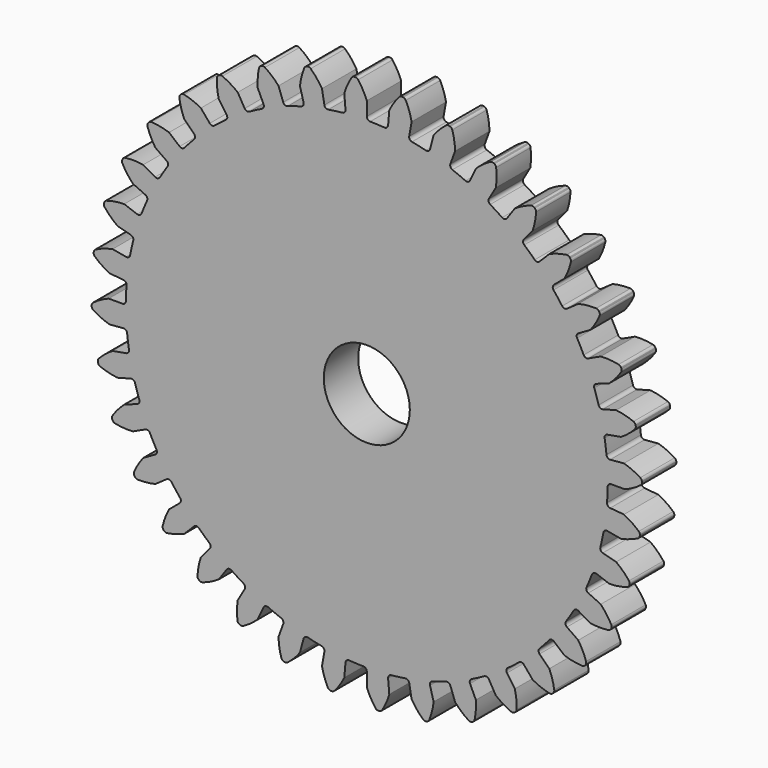
from build123d import *

# Parameters (mm, degrees)
F1_DEPTH = 6.35
F2_R     = 6.35
F3_DEPTH = 6.351


with BuildPart() as f1:
    # F0 (on Front) → F1 (new body)
    with BuildSketch(Plane.XZ):
        with BuildLine():
            ThreePointArc((-3.143222, 35.927186), (-3.257848, 35.559124), (-3.59789, 35.377518))
            ThreePointArc((-3.59789, 35.377518), (-4.641511, 35.255779), (-5.681081, 35.103261))
            ThreePointArc((-5.681081, 35.103261), (-7.696593, 34.717086), (-9.686472, 34.215287))
            ThreePointArc((-9.686472, 34.215287), (-10.693098, 33.914175), (-11.690389, 33.583454))
            ThreePointArc((-11.690389, 33.583454), (-13.608223, 32.853156), (-15.480734, 32.013442))
            ThreePointArc((-15.480734, 32.013442), (-16.419781, 31.542105), (-17.344492, 31.043231))
            ThreePointArc((-17.344492, 31.043231), (-19.106374, 29.991), (-20.804623, 28.838884))
            ThreePointArc((-20.804623, 28.838884), (-21.647556, 28.211645), (-22.471591, 27.559775))
            ThreePointArc((-22.471591, 27.559775), (-24.023988, 26.217582), (-25.496374, 24.788072))
            ThreePointArc((-25.496374, 24.788072), (-26.217582, 24.023988), (-26.915901, 23.23893))
            ThreePointArc((-26.915901, 23.23893), (-28.211645, 21.647556), (-29.41343, 19.984087))
            ThreePointArc((-29.41343, 19.984087), (-29.991, 19.106374), (-30.542386, 18.211981))
            ThreePointArc((-30.542386, 18.211981), (-31.542105, 16.419781), (-32.436774, 14.572895))
            ThreePointArc((-32.436774, 14.572895), (-32.853156, 13.608223), (-33.240856, 12.63167))
            ThreePointArc((-33.240856, 12.63167), (-33.914175, 10.693098), (-34.474544, 8.718913))
            ThreePointArc((-34.474544, 8.718913), (-34.717086, 7.696593), (-34.929319, 6.667553))
            ThreePointArc((-34.929319, 6.667553), (-35.255779, 4.641511), (-35.464821, 2.600012))
            ThreePointArc((-35.464821, 2.600012), (-35.526155, 1.551105), (-35.556473, 0.500845))
            ThreePointArc((-35.556473, 0.500845), (-35.526155, -1.551105), (-35.377518, -3.59789))
            ThreePointArc((-35.377518, -3.59789), (-35.255779, -4.641511), (-35.103261, -5.681081))
            ThreePointArc((-35.103261, -5.681081), (-34.717086, -7.696593), (-34.215287, -9.686472))
            ThreePointArc((-34.215287, -9.686472), (-33.914175, -10.693098), (-33.583454, -11.690389))
            ThreePointArc((-33.583454, -11.690389), (-32.853156, -13.608223), (-32.013442, -15.480734))
            ThreePointArc((-32.013442, -15.480734), (-31.542105, -16.419781), (-31.043231, -17.344492))
            ThreePointArc((-31.043231, -17.344492), (-29.991, -19.106374), (-28.838884, -20.804623))
            ThreePointArc((-28.838884, -20.804623), (-28.211645, -21.647556), (-27.559775, -22.471591))
            ThreePointArc((-27.559775, -22.471591), (-26.217582, -24.023988), (-24.788072, -25.496374))
            ThreePointArc((-24.788072, -25.496374), (-24.023988, -26.217582), (-23.23893, -26.915901))
            ThreePointArc((-23.23893, -26.915901), (-21.647556, -28.211645), (-19.984087, -29.41343))
            ThreePointArc((-19.984087, -29.41343), (-19.106374, -29.991), (-18.211981, -30.542386))
            ThreePointArc((-18.211981, -30.542386), (-16.419781, -31.542105), (-14.572895, -32.436774))
            ThreePointArc((-14.572895, -32.436774), (-13.608223, -32.853156), (-12.63167, -33.240856))
            ThreePointArc((-12.63167, -33.240856), (-10.693098, -33.914175), (-8.718913, -34.474544))
            ThreePointArc((-8.718913, -34.474544), (-7.696593, -34.717086), (-6.667553, -34.929319))
            ThreePointArc((-6.667553, -34.929319), (-4.641511, -35.255779), (-2.600012, -35.464821))
            ThreePointArc((-2.600012, -35.464821), (-1.551105, -35.526155), (-0.500845, -35.556473))
            ThreePointArc((-0.500845, -35.556473), (1.551105, -35.526155), (3.59789, -35.377518))
            ThreePointArc((3.59789, -35.377518), (4.641511, -35.255779), (5.681081, -35.103261))
            ThreePointArc((5.681081, -35.103261), (7.696593, -34.717086), (9.686472, -34.215287))
            ThreePointArc((9.686472, -34.215287), (10.693098, -33.914175), (11.690389, -33.583454))
            ThreePointArc((11.690389, -33.583454), (13.608223, -32.853156), (15.480734, -32.013442))
            ThreePointArc((15.480734, -32.013442), (16.419781, -31.542105), (17.344492, -31.043231))
            ThreePointArc((17.344492, -31.043231), (19.106374, -29.991), (20.804623, -28.838884))
            ThreePointArc((20.804623, -28.838884), (21.647556, -28.211645), (22.471591, -27.559775))
            ThreePointArc((22.471591, -27.559775), (24.023988, -26.217582), (25.496374, -24.788072))
            ThreePointArc((25.496374, -24.788072), (26.217582, -24.023988), (26.915901, -23.23893))
            ThreePointArc((26.915901, -23.23893), (28.211645, -21.647556), (29.41343, -19.984087))
            ThreePointArc((29.41343, -19.984087), (29.991, -19.106374), (30.542386, -18.211981))
            ThreePointArc((30.542386, -18.211981), (31.542105, -16.419781), (32.436774, -14.572895))
            ThreePointArc((32.436774, -14.572895), (32.853156, -13.608223), (33.240856, -12.63167))
            ThreePointArc((33.240856, -12.63167), (33.914175, -10.693098), (34.474544, -8.718913))
            ThreePointArc((34.474544, -8.718913), (34.717086, -7.696593), (34.929319, -6.667553))
            ThreePointArc((34.929319, -6.667553), (35.255779, -4.641511), (35.464821, -2.600012))
            ThreePointArc((35.464821, -2.600012), (35.526155, -1.551105), (35.556473, -0.500845))
            ThreePointArc((35.556473, -0.500845), (35.526155, 1.551105), (35.377518, 3.59789))
            ThreePointArc((35.377518, 3.59789), (35.255779, 4.641511), (35.103261, 5.681081))
            ThreePointArc((35.103261, 5.681081), (34.717086, 7.696593), (34.215287, 9.686472))
            ThreePointArc((34.215287, 9.686472), (33.914175, 10.693098), (33.583454, 11.690389))
            ThreePointArc((33.583454, 11.690389), (32.853156, 13.608223), (32.013442, 15.480734))
            ThreePointArc((32.013442, 15.480734), (31.542105, 16.419781), (31.043231, 17.344492))
            ThreePointArc((31.043231, 17.344492), (29.991, 19.106374), (28.838884, 20.804623))
            ThreePointArc((28.838884, 20.804623), (28.211645, 21.647556), (27.559775, 22.471591))
            ThreePointArc((27.559775, 22.471591), (26.217582, 24.023988), (24.788072, 25.496374))
            ThreePointArc((24.788072, 25.496374), (24.023988, 26.217582), (23.23893, 26.915901))
            ThreePointArc((23.23893, 26.915901), (21.647556, 28.211645), (19.984087, 29.41343))
            ThreePointArc((19.984087, 29.41343), (19.106374, 29.991), (18.211981, 30.542386))
            ThreePointArc((18.211981, 30.542386), (16.419781, 31.542105), (14.572895, 32.436774))
            ThreePointArc((14.572895, 32.436774), (13.608223, 32.853156), (12.63167, 33.240856))
            ThreePointArc((12.63167, 33.240856), (10.693098, 33.914175), (8.718913, 34.474544))
            ThreePointArc((8.718913, 34.474544), (7.696593, 34.717086), (6.667553, 34.929319))
            ThreePointArc((6.667553, 34.929319), (4.641511, 35.255779), (2.600012, 35.464821))
            ThreePointArc((2.600012, 35.464821), (1.551105, 35.526155), (0.500845, 35.556473))
            ThreePointArc((0.500845, 35.556473), (0.146269, 35.707751), (0, 36.064422))
            Line((0, 36.064422), (0, 38.1))
            ThreePointArc((0, 38.1), (-0.560582, 39.300801), (-1.282401, 40.412176))
            ThreePointArc((-1.282401, 40.412176), (-1.46145, 40.561122), (-1.688151, 40.614511))
            Line((-1.688151, 40.614511), (-1.773268, 40.614511))
            Line((-1.773268, 40.614511), (-1.858061, 40.607092))
            ThreePointArc((-1.858061, 40.607092), (-2.079245, 40.534148), (-2.244632, 40.370165))
            ThreePointArc((-2.244632, 40.370165), (-2.866841, 39.200108), (-3.320634, 37.955018))
            Line((-3.320634, 37.955018), (-3.143222, 35.927186))
        make_face()
        with BuildLine():
            ThreePointArc((-9.686472, 34.215287), (-7.696593, 34.717086), (-5.681081, 35.103261))
            ThreePointArc((-5.681081, 35.103261), (-6.056539, 35.190669), (-6.262521, 35.516523))
            Line((-6.262521, 35.516523), (-6.615996, 37.521175))
            ThreePointArc((-6.615996, 37.521175), (-7.376578, 38.60639), (-8.280419, 39.575538))
            ThreePointArc((-8.280419, 39.575538), (-8.482613, 39.691129), (-8.71514, 39.704341))
            Line((-8.71514, 39.704341), (-8.798964, 39.689561))
            Line((-8.798964, 39.689561), (-8.881181, 39.667531))
            ThreePointArc((-8.881181, 39.667531), (-9.086338, 39.557286), (-9.220736, 39.367075))
            ThreePointArc((-9.220736, 39.367075), (-9.630315, 38.106749), (-9.861006, 36.801774))
            Line((-9.861006, 36.801774), (-9.334159, 34.835557))
            ThreePointArc((-9.334159, 34.835557), (-9.383131, 34.453181), (-9.686472, 34.215287))
        make_face()
        with BuildLine():
            ThreePointArc((-15.480734, 32.013442), (-13.608223, 32.853156), (-11.690389, 33.583454))
            ThreePointArc((-11.690389, 33.583454), (-12.075322, 33.604337), (-12.334759, 33.889472))
            Line((-12.334759, 33.889472), (-13.030967, 35.802289))
            ThreePointArc((-13.030967, 35.802289), (-13.968441, 36.738943), (-15.026841, 37.536417))
            ThreePointArc((-15.026841, 37.536417), (-15.246035, 37.615141), (-15.477324, 37.587775))
            Line((-15.477324, 37.587775), (-15.557308, 37.558663))
            Line((-15.557308, 37.558663), (-15.63445, 37.522691))
            ThreePointArc((-15.63445, 37.522691), (-15.817347, 37.378496), (-15.916674, 37.167836))
            ThreePointArc((-15.916674, 37.167836), (-16.101176, 35.855535), (-16.101756, 34.530327))
            Line((-16.101756, 34.530327), (-15.241483, 32.685467))
            ThreePointArc((-15.241483, 32.685467), (-15.223312, 32.300397), (-15.480734, 32.013442))
        make_face()
        with BuildLine():
            ThreePointArc((-20.804623, 28.838884), (-19.106374, 29.991), (-17.344492, 31.043231))
            ThreePointArc((-17.344492, 31.043231), (-17.727203, 30.996954), (-18.032211, 31.232706))
            Line((-18.032211, 31.232706), (-19.05, 32.995568))
            ThreePointArc((-19.05, 32.995568), (-20.135879, 33.755201), (-21.31668, 34.356771))
            ThreePointArc((-21.31668, 34.356771), (-21.546214, 34.396237), (-21.769237, 34.329123))
            Line((-21.769237, 34.329123), (-21.84295, 34.286564))
            Line((-21.84295, 34.286564), (-21.912674, 34.237743))
            ThreePointArc((-21.912674, 34.237743), (-22.067754, 34.063979), (-22.128991, 33.839272))
            ThreePointArc((-22.128991, 33.839272), (-22.082812, 32.514869), (-21.853262, 31.209693))
            Line((-21.853262, 31.209693), (-20.685703, 29.542245))
            ThreePointArc((-20.685703, 29.542245), (-20.600941, 29.166181), (-20.804623, 28.838884))
        make_face()
        with BuildLine():
            ThreePointArc((-25.496374, 24.788072), (-24.023988, 26.217582), (-22.471591, 27.559775))
            ThreePointArc((-22.471591, 27.559775), (-22.840451, 27.447744), (-23.181764, 27.62695))
            Line((-23.181764, 27.62695), (-24.490208, 29.186293))
            ThreePointArc((-24.490208, 29.186293), (-25.691499, 29.745825), (-26.958823, 30.133212))
            ThreePointArc((-26.958823, 30.133212), (-27.191723, 30.13222), (-27.399703, 30.027398))
            Line((-27.399703, 30.027398), (-27.464906, 29.972686))
            Line((-27.464906, 29.972686), (-27.525093, 29.912499))
            ThreePointArc((-27.525093, 29.912499), (-27.647643, 29.714446), (-27.668929, 29.482519))
            ThreePointArc((-27.668929, 29.482519), (-27.393472, 28.186255), (-26.940768, 26.940768))
            Line((-26.940768, 26.940768), (-25.501398, 25.501398))
            ThreePointArc((-25.501398, 25.501398), (-25.35262, 25.145765), (-25.496374, 24.788072))
        make_face()
        with BuildLine():
            ThreePointArc((-29.41343, 19.984087), (-28.211645, 21.647556), (-26.915901, 23.23893))
            ThreePointArc((-26.915901, 23.23893), (-27.259704, 23.064548), (-27.62695, 23.181764))
            Line((-27.62695, 23.181764), (-29.186293, 24.490208))
            ThreePointArc((-29.186293, 24.490208), (-30.466496, 24.832637), (-31.781835, 24.99407))
            ThreePointArc((-31.781835, 24.99407), (-32.011024, 24.952651), (-32.197643, 24.813306))
            Line((-32.197643, 24.813306), (-32.252355, 24.748102))
            Line((-32.252355, 24.748102), (-32.301176, 24.678378))
            ThreePointArc((-32.301176, 24.678378), (-32.387472, 24.462054), (-32.368162, 24.229954))
            ThreePointArc((-32.368162, 24.229954), (-31.871795, 23.001216), (-31.209693, 21.853262))
            Line((-31.209693, 21.853262), (-29.542245, 20.685703))
            ThreePointArc((-29.542245, 20.685703), (-29.333973, 20.361308), (-29.41343, 19.984087))
        make_face()
        with BuildLine():
            ThreePointArc((-32.436774, 14.572895), (-31.542105, 16.419781), (-30.542386, 18.211981))
            ThreePointArc((-30.542386, 18.211981), (-30.850685, 17.980548), (-31.232706, 18.032211))
            Line((-31.232706, 18.032211), (-32.995568, 19.05))
            ThreePointArc((-32.995568, 19.05), (-34.315784, 19.164922), (-35.639172, 19.095496))
            ThreePointArc((-35.639172, 19.095496), (-35.857687, 19.014908), (-36.017274, 18.845274))
            Line((-36.017274, 18.845274), (-36.059832, 18.77156))
            Line((-36.059832, 18.77156), (-36.095804, 18.694418))
            ThreePointArc((-36.095804, 18.694418), (-36.143225, 18.466395), (-36.083904, 18.241174))
            ThreePointArc((-36.083904, 18.241174), (-35.38171, 17.117297), (-34.530327, 16.101756))
            Line((-34.530327, 16.101756), (-32.685467, 15.241483))
            ThreePointArc((-32.685467, 15.241483), (-32.424028, 14.958183), (-32.436774, 14.572895))
        make_face()
        with BuildLine():
            ThreePointArc((3.143222, 35.927186), (2.966423, 35.58462), (2.600012, 35.464821))
            ThreePointArc((2.600012, 35.464821), (4.641511, 35.255779), (6.667553, 34.929319))
            ThreePointArc((6.667553, 34.929319), (6.344633, 35.13987), (6.262521, 35.516523))
            Line((6.262521, 35.516523), (6.615996, 37.521175))
            ThreePointArc((6.615996, 37.521175), (6.272447, 38.801078), (5.754582, 40.020911))
            ThreePointArc((5.754582, 40.020911), (5.604117, 40.198685), (5.390132, 40.29063))
            Line((5.390132, 40.29063), (5.306308, 40.30541))
            Line((5.306308, 40.30541), (5.221515, 40.312828))
            ThreePointArc((5.221515, 40.312828), (4.991024, 40.279401), (4.799675, 40.146627))
            ThreePointArc((4.799675, 40.146627), (3.98374, 39.102392), (3.320634, 37.955018))
            Line((3.320634, 37.955018), (3.143222, 35.927186))
        make_face()
        with BuildLine():
            ThreePointArc((-34.474544, 8.718913), (-33.914175, 10.693098), (-33.240856, 12.63167))
            ThreePointArc((-33.240856, 12.63167), (-33.504283, 12.350218), (-33.889472, 12.334759))
            Line((-33.889472, 12.334759), (-35.802289, 13.030967))
            ThreePointArc((-35.802289, 13.030967), (-37.122404, 12.914891), (-38.413631, 12.616715))
            ThreePointArc((-38.413631, 12.616715), (-38.614832, 12.499406), (-38.742538, 12.304638))
            Line((-38.742538, 12.304638), (-38.77165, 12.224654))
            Line((-38.77165, 12.224654), (-38.79368, 12.142437))
            ThreePointArc((-38.79368, 12.142437), (-38.800784, 11.909644), (-38.703255, 11.698145))
            ThreePointArc((-38.703255, 11.698145), (-37.81657, 10.713277), (-36.801774, 9.861006))
            Line((-36.801774, 9.861006), (-34.835557, 9.334159))
            ThreePointArc((-34.835557, 9.334159), (-34.528896, 9.100561), (-34.474544, 8.718913))
        make_face()
        with BuildLine():
            ThreePointArc((9.334159, 34.835557), (9.100561, 34.528896), (8.718913, 34.474544))
            ThreePointArc((8.718913, 34.474544), (10.693098, 33.914175), (12.63167, 33.240856))
            ThreePointArc((12.63167, 33.240856), (12.350218, 33.504283), (12.334759, 33.889472))
            Line((12.334759, 33.889472), (13.030967, 35.802289))
            ThreePointArc((13.030967, 35.802289), (12.914891, 37.122404), (12.616715, 38.413631))
            ThreePointArc((12.616715, 38.413631), (12.499406, 38.614832), (12.304638, 38.742538))
            Line((12.304638, 38.742538), (12.224654, 38.77165))
            Line((12.224654, 38.77165), (12.142437, 38.79368))
            ThreePointArc((12.142437, 38.79368), (11.909644, 38.800784), (11.698145, 38.703255))
            ThreePointArc((11.698145, 38.703255), (10.713277, 37.81657), (9.861006, 36.801774))
            Line((9.861006, 36.801774), (9.334159, 34.835557))
        make_face()
        with BuildLine():
            ThreePointArc((-35.464821, 2.600012), (-35.255779, 4.641511), (-34.929319, 6.667553))
            ThreePointArc((-34.929319, 6.667553), (-35.13987, 6.344633), (-35.516523, 6.262521))
            Line((-35.516523, 6.262521), (-37.521175, 6.615996))
            ThreePointArc((-37.521175, 6.615996), (-38.801078, 6.272447), (-40.020911, 5.754582))
            ThreePointArc((-40.020911, 5.754582), (-40.198685, 5.604117), (-40.29063, 5.390132))
            Line((-40.29063, 5.390132), (-40.30541, 5.306308))
            Line((-40.30541, 5.306308), (-40.312828, 5.221515))
            ThreePointArc((-40.312828, 5.221515), (-40.279401, 4.991024), (-40.146627, 4.799675))
            ThreePointArc((-40.146627, 4.799675), (-39.102392, 3.98374), (-37.955018, 3.320634))
            Line((-37.955018, 3.320634), (-35.927186, 3.143222))
            ThreePointArc((-35.927186, 3.143222), (-35.58462, 2.966423), (-35.464821, 2.600012))
        make_face()
        with BuildLine():
            ThreePointArc((15.241483, 32.685467), (14.958183, 32.424028), (14.572895, 32.436774))
            ThreePointArc((14.572895, 32.436774), (16.419781, 31.542105), (18.211981, 30.542386))
            ThreePointArc((18.211981, 30.542386), (17.980548, 30.850685), (18.032211, 31.232706))
            Line((18.032211, 31.232706), (19.05, 32.995568))
            ThreePointArc((19.05, 32.995568), (19.164922, 34.315784), (19.095496, 35.639172))
            ThreePointArc((19.095496, 35.639172), (19.014908, 35.857687), (18.845274, 36.017274))
            Line((18.845274, 36.017274), (18.77156, 36.059832))
            Line((18.77156, 36.059832), (18.694418, 36.095804))
            ThreePointArc((18.694418, 36.095804), (18.466395, 36.143225), (18.241174, 36.083904))
            ThreePointArc((18.241174, 36.083904), (17.117297, 35.38171), (16.101756, 34.530327))
            Line((16.101756, 34.530327), (15.241483, 32.685467))
        make_face()
        with BuildLine():
            ThreePointArc((-35.377518, -3.59789), (-35.526155, -1.551105), (-35.556473, 0.500845))
            ThreePointArc((-35.556473, 0.500845), (-35.707751, 0.146269), (-36.064422, 0))
            Line((-36.064422, 0), (-38.1, 0))
            ThreePointArc((-38.1, 0), (-39.300801, -0.560582), (-40.412176, -1.282401))
            ThreePointArc((-40.412176, -1.282401), (-40.561122, -1.46145), (-40.614511, -1.688151))
            Line((-40.614511, -1.688151), (-40.614511, -1.773268))
            Line((-40.614511, -1.773268), (-40.607092, -1.858061))
            ThreePointArc((-40.607092, -1.858061), (-40.534148, -2.079245), (-40.370165, -2.244632))
            ThreePointArc((-40.370165, -2.244632), (-39.200108, -2.866841), (-37.955018, -3.320634))
            Line((-37.955018, -3.320634), (-35.927186, -3.143222))
            ThreePointArc((-35.927186, -3.143222), (-35.559124, -3.257848), (-35.377518, -3.59789))
        make_face()
        with BuildLine():
            ThreePointArc((20.685703, 29.542245), (20.361308, 29.333973), (19.984087, 29.41343))
            ThreePointArc((19.984087, 29.41343), (21.647556, 28.211645), (23.23893, 26.915901))
            ThreePointArc((23.23893, 26.915901), (23.064548, 27.259704), (23.181764, 27.62695))
            Line((23.181764, 27.62695), (24.490208, 29.186293))
            ThreePointArc((24.490208, 29.186293), (24.832637, 30.466496), (24.99407, 31.781835))
            ThreePointArc((24.99407, 31.781835), (24.952651, 32.011024), (24.813306, 32.197643))
            Line((24.813306, 32.197643), (24.748102, 32.252355))
            Line((24.748102, 32.252355), (24.678378, 32.301176))
            ThreePointArc((24.678378, 32.301176), (24.462054, 32.387472), (24.229954, 32.368162))
            ThreePointArc((24.229954, 32.368162), (23.001216, 31.871795), (21.853262, 31.209693))
            Line((21.853262, 31.209693), (20.685703, 29.542245))
        make_face()
        with BuildLine():
            ThreePointArc((-34.215287, -9.686472), (-34.717086, -7.696593), (-35.103261, -5.681081))
            ThreePointArc((-35.103261, -5.681081), (-35.190669, -6.056539), (-35.516523, -6.262521))
            Line((-35.516523, -6.262521), (-37.521175, -6.615996))
            ThreePointArc((-37.521175, -6.615996), (-38.60639, -7.376578), (-39.575538, -8.280419))
            ThreePointArc((-39.575538, -8.280419), (-39.691129, -8.482613), (-39.704341, -8.71514))
            Line((-39.704341, -8.71514), (-39.689561, -8.798964))
            Line((-39.689561, -8.798964), (-39.667531, -8.881181))
            ThreePointArc((-39.667531, -8.881181), (-39.557286, -9.086338), (-39.367075, -9.220736))
            ThreePointArc((-39.367075, -9.220736), (-38.106749, -9.630315), (-36.801774, -9.861006))
            Line((-36.801774, -9.861006), (-34.835557, -9.334159))
            ThreePointArc((-34.835557, -9.334159), (-34.453181, -9.383131), (-34.215287, -9.686472))
        make_face()
        with BuildLine():
            ThreePointArc((25.501398, 25.501398), (25.145765, 25.35262), (24.788072, 25.496374))
            ThreePointArc((24.788072, 25.496374), (26.217582, 24.023988), (27.559775, 22.471591))
            ThreePointArc((27.559775, 22.471591), (27.447744, 22.840451), (27.62695, 23.181764))
            Line((27.62695, 23.181764), (29.186293, 24.490208))
            ThreePointArc((29.186293, 24.490208), (29.745825, 25.691499), (30.133212, 26.958823))
            ThreePointArc((30.133212, 26.958823), (30.13222, 27.191723), (30.027398, 27.399703))
            Line((30.027398, 27.399703), (29.972686, 27.464906))
            Line((29.972686, 27.464906), (29.912499, 27.525093))
            ThreePointArc((29.912499, 27.525093), (29.714446, 27.647643), (29.482519, 27.668929))
            ThreePointArc((29.482519, 27.668929), (28.186255, 27.393472), (26.940768, 26.940768))
            Line((26.940768, 26.940768), (25.501398, 25.501398))
        make_face()
        with BuildLine():
            ThreePointArc((-32.013442, -15.480734), (-32.853156, -13.608223), (-33.583454, -11.690389))
            ThreePointArc((-33.583454, -11.690389), (-33.604337, -12.075322), (-33.889472, -12.334759))
            Line((-33.889472, -12.334759), (-35.802289, -13.030967))
            ThreePointArc((-35.802289, -13.030967), (-36.738943, -13.968441), (-37.536417, -15.026841))
            ThreePointArc((-37.536417, -15.026841), (-37.615141, -15.246035), (-37.587775, -15.477324))
            Line((-37.587775, -15.477324), (-37.558663, -15.557308))
            Line((-37.558663, -15.557308), (-37.522691, -15.63445))
            ThreePointArc((-37.522691, -15.63445), (-37.378496, -15.817347), (-37.167836, -15.916674))
            ThreePointArc((-37.167836, -15.916674), (-35.855535, -16.101176), (-34.530327, -16.101756))
            Line((-34.530327, -16.101756), (-32.685467, -15.241483))
            ThreePointArc((-32.685467, -15.241483), (-32.300397, -15.223312), (-32.013442, -15.480734))
        make_face()
        with BuildLine():
            ThreePointArc((29.542245, 20.685703), (29.166181, 20.600941), (28.838884, 20.804623))
            ThreePointArc((28.838884, 20.804623), (29.991, 19.106374), (31.043231, 17.344492))
            ThreePointArc((31.043231, 17.344492), (30.996954, 17.727203), (31.232706, 18.032211))
            Line((31.232706, 18.032211), (32.995568, 19.05))
            ThreePointArc((32.995568, 19.05), (33.755201, 20.135879), (34.356771, 21.31668))
            ThreePointArc((34.356771, 21.31668), (34.396237, 21.546214), (34.329123, 21.769237))
            Line((34.329123, 21.769237), (34.286564, 21.84295))
            Line((34.286564, 21.84295), (34.237743, 21.912674))
            ThreePointArc((34.237743, 21.912674), (34.063979, 22.067754), (33.839272, 22.128991))
            ThreePointArc((33.839272, 22.128991), (32.514869, 22.082812), (31.209693, 21.853262))
            Line((31.209693, 21.853262), (29.542245, 20.685703))
        make_face()
        with BuildLine():
            ThreePointArc((-28.838884, -20.804623), (-29.991, -19.106374), (-31.043231, -17.344492))
            ThreePointArc((-31.043231, -17.344492), (-30.996954, -17.727203), (-31.232706, -18.032211))
            Line((-31.232706, -18.032211), (-32.995568, -19.05))
            ThreePointArc((-32.995568, -19.05), (-33.755201, -20.135879), (-34.356771, -21.31668))
            ThreePointArc((-34.356771, -21.31668), (-34.396237, -21.546214), (-34.329123, -21.769237))
            Line((-34.329123, -21.769237), (-34.286564, -21.84295))
            Line((-34.286564, -21.84295), (-34.237743, -21.912674))
            ThreePointArc((-34.237743, -21.912674), (-34.063979, -22.067754), (-33.839272, -22.128991))
            ThreePointArc((-33.839272, -22.128991), (-32.514869, -22.082812), (-31.209693, -21.853262))
            Line((-31.209693, -21.853262), (-29.542245, -20.685703))
            ThreePointArc((-29.542245, -20.685703), (-29.166181, -20.600941), (-28.838884, -20.804623))
        make_face()
        with BuildLine():
            ThreePointArc((32.685467, 15.241483), (32.300397, 15.223312), (32.013442, 15.480734))
            ThreePointArc((32.013442, 15.480734), (32.853156, 13.608223), (33.583454, 11.690389))
            ThreePointArc((33.583454, 11.690389), (33.604337, 12.075322), (33.889472, 12.334759))
            Line((33.889472, 12.334759), (35.802289, 13.030967))
            ThreePointArc((35.802289, 13.030967), (36.738943, 13.968441), (37.536417, 15.026841))
            ThreePointArc((37.536417, 15.026841), (37.615141, 15.246035), (37.587775, 15.477324))
            Line((37.587775, 15.477324), (37.558663, 15.557308))
            Line((37.558663, 15.557308), (37.522691, 15.63445))
            ThreePointArc((37.522691, 15.63445), (37.378496, 15.817347), (37.167836, 15.916674))
            ThreePointArc((37.167836, 15.916674), (35.855535, 16.101176), (34.530327, 16.101756))
            Line((34.530327, 16.101756), (32.685467, 15.241483))
        make_face()
        with BuildLine():
            ThreePointArc((-24.788072, -25.496374), (-26.217582, -24.023988), (-27.559775, -22.471591))
            ThreePointArc((-27.559775, -22.471591), (-27.447744, -22.840451), (-27.62695, -23.181764))
            Line((-27.62695, -23.181764), (-29.186293, -24.490208))
            ThreePointArc((-29.186293, -24.490208), (-29.745825, -25.691499), (-30.133212, -26.958823))
            ThreePointArc((-30.133212, -26.958823), (-30.13222, -27.191723), (-30.027398, -27.399703))
            Line((-30.027398, -27.399703), (-29.972686, -27.464906))
            Line((-29.972686, -27.464906), (-29.912499, -27.525093))
            ThreePointArc((-29.912499, -27.525093), (-29.714446, -27.647643), (-29.482519, -27.668929))
            ThreePointArc((-29.482519, -27.668929), (-28.186255, -27.393472), (-26.940768, -26.940768))
            Line((-26.940768, -26.940768), (-25.501398, -25.501398))
            ThreePointArc((-25.501398, -25.501398), (-25.145765, -25.35262), (-24.788072, -25.496374))
        make_face()
        with BuildLine():
            ThreePointArc((34.835557, 9.334159), (34.453181, 9.383131), (34.215287, 9.686472))
            ThreePointArc((34.215287, 9.686472), (34.717086, 7.696593), (35.103261, 5.681081))
            ThreePointArc((35.103261, 5.681081), (35.190669, 6.056539), (35.516523, 6.262521))
            Line((35.516523, 6.262521), (37.521175, 6.615996))
            ThreePointArc((37.521175, 6.615996), (38.60639, 7.376578), (39.575538, 8.280419))
            ThreePointArc((39.575538, 8.280419), (39.691129, 8.482613), (39.704341, 8.71514))
            Line((39.704341, 8.71514), (39.689561, 8.798964))
            Line((39.689561, 8.798964), (39.667531, 8.881181))
            ThreePointArc((39.667531, 8.881181), (39.557286, 9.086338), (39.367075, 9.220736))
            ThreePointArc((39.367075, 9.220736), (38.106749, 9.630315), (36.801774, 9.861006))
            Line((36.801774, 9.861006), (34.835557, 9.334159))
        make_face()
        with BuildLine():
            ThreePointArc((-19.984087, -29.41343), (-21.647556, -28.211645), (-23.23893, -26.915901))
            ThreePointArc((-23.23893, -26.915901), (-23.064548, -27.259704), (-23.181764, -27.62695))
            Line((-23.181764, -27.62695), (-24.490208, -29.186293))
            ThreePointArc((-24.490208, -29.186293), (-24.832637, -30.466496), (-24.99407, -31.781835))
            ThreePointArc((-24.99407, -31.781835), (-24.952651, -32.011024), (-24.813306, -32.197643))
            Line((-24.813306, -32.197643), (-24.748102, -32.252355))
            Line((-24.748102, -32.252355), (-24.678378, -32.301176))
            ThreePointArc((-24.678378, -32.301176), (-24.462054, -32.387472), (-24.229954, -32.368162))
            ThreePointArc((-24.229954, -32.368162), (-23.001216, -31.871795), (-21.853262, -31.209693))
            Line((-21.853262, -31.209693), (-20.685703, -29.542245))
            ThreePointArc((-20.685703, -29.542245), (-20.361308, -29.333973), (-19.984087, -29.41343))
        make_face()
        with BuildLine():
            ThreePointArc((35.927186, 3.143222), (35.559124, 3.257848), (35.377518, 3.59789))
            ThreePointArc((35.377518, 3.59789), (35.526155, 1.551105), (35.556473, -0.500845))
            ThreePointArc((35.556473, -0.500845), (35.707751, -0.146269), (36.064422, 0))
            Line((36.064422, 0), (38.1, 0))
            ThreePointArc((38.1, 0), (39.300801, 0.560582), (40.412176, 1.282401))
            ThreePointArc((40.412176, 1.282401), (40.561122, 1.46145), (40.614511, 1.688151))
            Line((40.614511, 1.688151), (40.614511, 1.773268))
            Line((40.614511, 1.773268), (40.607092, 1.858061))
            ThreePointArc((40.607092, 1.858061), (40.534148, 2.079245), (40.370165, 2.244632))
            ThreePointArc((40.370165, 2.244632), (39.200108, 2.866841), (37.955018, 3.320634))
            Line((37.955018, 3.320634), (35.927186, 3.143222))
        make_face()
        with BuildLine():
            ThreePointArc((-14.572895, -32.436774), (-16.419781, -31.542105), (-18.211981, -30.542386))
            ThreePointArc((-18.211981, -30.542386), (-17.980548, -30.850685), (-18.032211, -31.232706))
            Line((-18.032211, -31.232706), (-19.05, -32.995568))
            ThreePointArc((-19.05, -32.995568), (-19.164922, -34.315784), (-19.095496, -35.639172))
            ThreePointArc((-19.095496, -35.639172), (-19.014908, -35.857687), (-18.845274, -36.017274))
            Line((-18.845274, -36.017274), (-18.77156, -36.059832))
            Line((-18.77156, -36.059832), (-18.694418, -36.095804))
            ThreePointArc((-18.694418, -36.095804), (-18.466395, -36.143225), (-18.241174, -36.083904))
            ThreePointArc((-18.241174, -36.083904), (-17.117297, -35.38171), (-16.101756, -34.530327))
            Line((-16.101756, -34.530327), (-15.241483, -32.685467))
            ThreePointArc((-15.241483, -32.685467), (-14.958183, -32.424028), (-14.572895, -32.436774))
        make_face()
        with BuildLine():
            ThreePointArc((35.927186, -3.143222), (35.58462, -2.966423), (35.464821, -2.600012))
            ThreePointArc((35.464821, -2.600012), (35.255779, -4.641511), (34.929319, -6.667553))
            ThreePointArc((34.929319, -6.667553), (35.13987, -6.344633), (35.516523, -6.262521))
            Line((35.516523, -6.262521), (37.521175, -6.615996))
            ThreePointArc((37.521175, -6.615996), (38.801078, -6.272447), (40.020911, -5.754582))
            ThreePointArc((40.020911, -5.754582), (40.198685, -5.604117), (40.29063, -5.390132))
            Line((40.29063, -5.390132), (40.30541, -5.306308))
            Line((40.30541, -5.306308), (40.312828, -5.221515))
            ThreePointArc((40.312828, -5.221515), (40.279401, -4.991024), (40.146627, -4.799675))
            ThreePointArc((40.146627, -4.799675), (39.102392, -3.98374), (37.955018, -3.320634))
            Line((37.955018, -3.320634), (35.927186, -3.143222))
        make_face()
        with BuildLine():
            ThreePointArc((-8.718913, -34.474544), (-10.693098, -33.914175), (-12.63167, -33.240856))
            ThreePointArc((-12.63167, -33.240856), (-12.350218, -33.504283), (-12.334759, -33.889472))
            Line((-12.334759, -33.889472), (-13.030967, -35.802289))
            ThreePointArc((-13.030967, -35.802289), (-12.914891, -37.122404), (-12.616715, -38.413631))
            ThreePointArc((-12.616715, -38.413631), (-12.499406, -38.614832), (-12.304638, -38.742538))
            Line((-12.304638, -38.742538), (-12.224654, -38.77165))
            Line((-12.224654, -38.77165), (-12.142437, -38.79368))
            ThreePointArc((-12.142437, -38.79368), (-11.909644, -38.800784), (-11.698145, -38.703255))
            ThreePointArc((-11.698145, -38.703255), (-10.713277, -37.81657), (-9.861006, -36.801774))
            Line((-9.861006, -36.801774), (-9.334159, -34.835557))
            ThreePointArc((-9.334159, -34.835557), (-9.100561, -34.528896), (-8.718913, -34.474544))
        make_face()
        with BuildLine():
            ThreePointArc((34.835557, -9.334159), (34.528896, -9.100561), (34.474544, -8.718913))
            ThreePointArc((34.474544, -8.718913), (33.914175, -10.693098), (33.240856, -12.63167))
            ThreePointArc((33.240856, -12.63167), (33.504283, -12.350218), (33.889472, -12.334759))
            Line((33.889472, -12.334759), (35.802289, -13.030967))
            ThreePointArc((35.802289, -13.030967), (37.122404, -12.914891), (38.413631, -12.616715))
            ThreePointArc((38.413631, -12.616715), (38.614832, -12.499406), (38.742538, -12.304638))
            Line((38.742538, -12.304638), (38.77165, -12.224654))
            Line((38.77165, -12.224654), (38.79368, -12.142437))
            ThreePointArc((38.79368, -12.142437), (38.800784, -11.909644), (38.703255, -11.698145))
            ThreePointArc((38.703255, -11.698145), (37.81657, -10.713277), (36.801774, -9.861006))
            Line((36.801774, -9.861006), (34.835557, -9.334159))
        make_face()
        with BuildLine():
            ThreePointArc((-2.600012, -35.464821), (-4.641511, -35.255779), (-6.667553, -34.929319))
            ThreePointArc((-6.667553, -34.929319), (-6.344633, -35.13987), (-6.262521, -35.516523))
            Line((-6.262521, -35.516523), (-6.615996, -37.521175))
            ThreePointArc((-6.615996, -37.521175), (-6.272447, -38.801078), (-5.754582, -40.020911))
            ThreePointArc((-5.754582, -40.020911), (-5.604117, -40.198685), (-5.390132, -40.29063))
            Line((-5.390132, -40.29063), (-5.306308, -40.30541))
            Line((-5.306308, -40.30541), (-5.221515, -40.312828))
            ThreePointArc((-5.221515, -40.312828), (-4.991024, -40.279401), (-4.799675, -40.146627))
            ThreePointArc((-4.799675, -40.146627), (-3.98374, -39.102392), (-3.320634, -37.955018))
            Line((-3.320634, -37.955018), (-3.143222, -35.927186))
            ThreePointArc((-3.143222, -35.927186), (-2.966423, -35.58462), (-2.600012, -35.464821))
        make_face()
        with BuildLine():
            ThreePointArc((32.685467, -15.241483), (32.424028, -14.958183), (32.436774, -14.572895))
            ThreePointArc((32.436774, -14.572895), (31.542105, -16.419781), (30.542386, -18.211981))
            ThreePointArc((30.542386, -18.211981), (30.850685, -17.980548), (31.232706, -18.032211))
            Line((31.232706, -18.032211), (32.995568, -19.05))
            ThreePointArc((32.995568, -19.05), (34.315784, -19.164922), (35.639172, -19.095496))
            ThreePointArc((35.639172, -19.095496), (35.857687, -19.014908), (36.017274, -18.845274))
            Line((36.017274, -18.845274), (36.059832, -18.77156))
            Line((36.059832, -18.77156), (36.095804, -18.694418))
            ThreePointArc((36.095804, -18.694418), (36.143225, -18.466395), (36.083904, -18.241174))
            ThreePointArc((36.083904, -18.241174), (35.38171, -17.117297), (34.530327, -16.101756))
            Line((34.530327, -16.101756), (32.685467, -15.241483))
        make_face()
        with BuildLine():
            ThreePointArc((3.59789, -35.377518), (1.551105, -35.526155), (-0.500845, -35.556473))
            ThreePointArc((-0.500845, -35.556473), (-0.146269, -35.707751), (0, -36.064422))
            Line((0, -36.064422), (0, -38.1))
            ThreePointArc((0, -38.1), (0.560582, -39.300801), (1.282401, -40.412176))
            ThreePointArc((1.282401, -40.412176), (1.46145, -40.561122), (1.688151, -40.614511))
            Line((1.688151, -40.614511), (1.773268, -40.614511))
            Line((1.773268, -40.614511), (1.858061, -40.607092))
            ThreePointArc((1.858061, -40.607092), (2.079245, -40.534148), (2.244632, -40.370165))
            ThreePointArc((2.244632, -40.370165), (2.866841, -39.200108), (3.320634, -37.955018))
            Line((3.320634, -37.955018), (3.143222, -35.927186))
            ThreePointArc((3.143222, -35.927186), (3.257848, -35.559124), (3.59789, -35.377518))
        make_face()
        with BuildLine():
            ThreePointArc((29.542245, -20.685703), (29.333973, -20.361308), (29.41343, -19.984087))
            ThreePointArc((29.41343, -19.984087), (28.211645, -21.647556), (26.915901, -23.23893))
            ThreePointArc((26.915901, -23.23893), (27.259704, -23.064548), (27.62695, -23.181764))
            Line((27.62695, -23.181764), (29.186293, -24.490208))
            ThreePointArc((29.186293, -24.490208), (30.466496, -24.832637), (31.781835, -24.99407))
            ThreePointArc((31.781835, -24.99407), (32.011024, -24.952651), (32.197643, -24.813306))
            Line((32.197643, -24.813306), (32.252355, -24.748102))
            Line((32.252355, -24.748102), (32.301176, -24.678378))
            ThreePointArc((32.301176, -24.678378), (32.387472, -24.462054), (32.368162, -24.229954))
            ThreePointArc((32.368162, -24.229954), (31.871795, -23.001216), (31.209693, -21.853262))
            Line((31.209693, -21.853262), (29.542245, -20.685703))
        make_face()
        with BuildLine():
            ThreePointArc((9.686472, -34.215287), (7.696593, -34.717086), (5.681081, -35.103261))
            ThreePointArc((5.681081, -35.103261), (6.056539, -35.190669), (6.262521, -35.516523))
            Line((6.262521, -35.516523), (6.615996, -37.521175))
            ThreePointArc((6.615996, -37.521175), (7.376578, -38.60639), (8.280419, -39.575538))
            ThreePointArc((8.280419, -39.575538), (8.482613, -39.691129), (8.71514, -39.704341))
            Line((8.71514, -39.704341), (8.798964, -39.689561))
            Line((8.798964, -39.689561), (8.881181, -39.667531))
            ThreePointArc((8.881181, -39.667531), (9.086338, -39.557286), (9.220736, -39.367075))
            ThreePointArc((9.220736, -39.367075), (9.630315, -38.106749), (9.861006, -36.801774))
            Line((9.861006, -36.801774), (9.334159, -34.835557))
            ThreePointArc((9.334159, -34.835557), (9.383131, -34.453181), (9.686472, -34.215287))
        make_face()
        with BuildLine():
            ThreePointArc((25.501398, -25.501398), (25.35262, -25.145765), (25.496374, -24.788072))
            ThreePointArc((25.496374, -24.788072), (24.023988, -26.217582), (22.471591, -27.559775))
            ThreePointArc((22.471591, -27.559775), (22.840451, -27.447744), (23.181764, -27.62695))
            Line((23.181764, -27.62695), (24.490208, -29.186293))
            ThreePointArc((24.490208, -29.186293), (25.691499, -29.745825), (26.958823, -30.133212))
            ThreePointArc((26.958823, -30.133212), (27.191723, -30.13222), (27.399703, -30.027398))
            Line((27.399703, -30.027398), (27.464906, -29.972686))
            Line((27.464906, -29.972686), (27.525093, -29.912499))
            ThreePointArc((27.525093, -29.912499), (27.647643, -29.714446), (27.668929, -29.482519))
            ThreePointArc((27.668929, -29.482519), (27.393472, -28.186255), (26.940768, -26.940768))
            Line((26.940768, -26.940768), (25.501398, -25.501398))
        make_face()
        with BuildLine():
            ThreePointArc((15.480734, -32.013442), (13.608223, -32.853156), (11.690389, -33.583454))
            ThreePointArc((11.690389, -33.583454), (12.075322, -33.604337), (12.334759, -33.889472))
            Line((12.334759, -33.889472), (13.030967, -35.802289))
            ThreePointArc((13.030967, -35.802289), (13.968441, -36.738943), (15.026841, -37.536417))
            ThreePointArc((15.026841, -37.536417), (15.246035, -37.615141), (15.477324, -37.587775))
            Line((15.477324, -37.587775), (15.557308, -37.558663))
            Line((15.557308, -37.558663), (15.63445, -37.522691))
            ThreePointArc((15.63445, -37.522691), (15.817347, -37.378496), (15.916674, -37.167836))
            ThreePointArc((15.916674, -37.167836), (16.101176, -35.855535), (16.101756, -34.530327))
            Line((16.101756, -34.530327), (15.241483, -32.685467))
            ThreePointArc((15.241483, -32.685467), (15.223312, -32.300397), (15.480734, -32.013442))
        make_face()
        with BuildLine():
            ThreePointArc((20.685703, -29.542245), (20.600941, -29.166181), (20.804623, -28.838884))
            ThreePointArc((20.804623, -28.838884), (19.106374, -29.991), (17.344492, -31.043231))
            ThreePointArc((17.344492, -31.043231), (17.727203, -30.996954), (18.032211, -31.232706))
            Line((18.032211, -31.232706), (19.05, -32.995568))
            ThreePointArc((19.05, -32.995568), (20.135879, -33.755201), (21.31668, -34.356771))
            ThreePointArc((21.31668, -34.356771), (21.546214, -34.396237), (21.769237, -34.329123))
            Line((21.769237, -34.329123), (21.84295, -34.286564))
            Line((21.84295, -34.286564), (21.912674, -34.237743))
            ThreePointArc((21.912674, -34.237743), (22.067754, -34.063979), (22.128991, -33.839272))
            ThreePointArc((22.128991, -33.839272), (22.082812, -32.514869), (21.853262, -31.209693))
            Line((21.853262, -31.209693), (20.685703, -29.542245))
        make_face()
    extrude(amount=F1_DEPTH)

    # F2 (on face) → F3 (cut, through all)
    with BuildSketch(Plane.XZ.offset(6.35)):
        Circle(F2_R)
    extrude(amount=-F3_DEPTH, mode=Mode.SUBTRACT)


solid = f1.part
